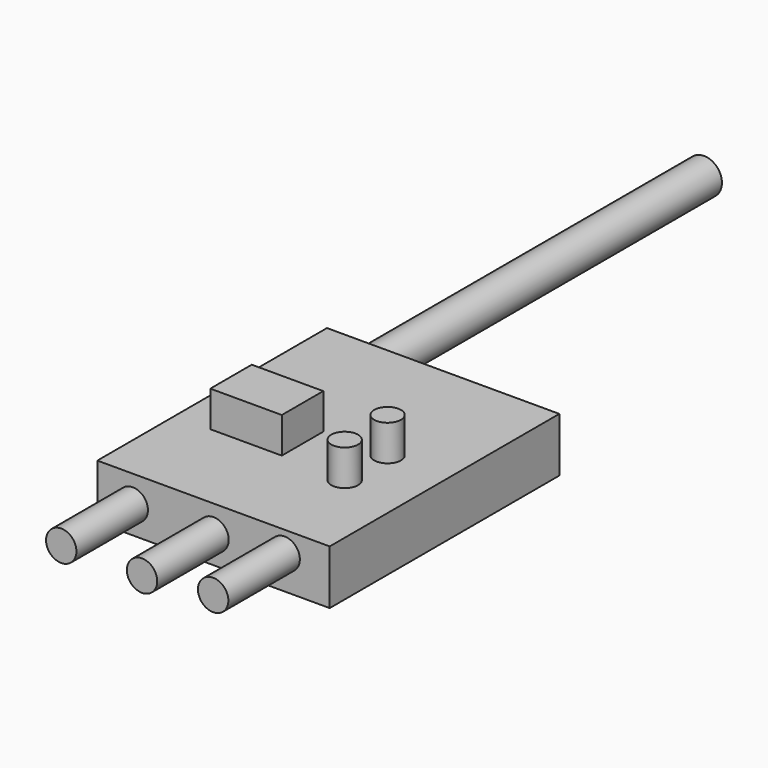
from build123d import *

# Parameters (mm, degrees)
F0_W     = 65
F0_H     = 80.3
F1_DEPTH = 15.2
F2_R     = 5
F3_DEPTH = 120
F4_R     = 4.25
F5_DEPTH = 25
F6_W     = 20
F6_H     = 14.5
F6_R     = 3.75
F7_DEPTH = 10


with BuildPart() as f1:
    # F0 (on Top) → F1 (new body)
    with BuildSketch(Plane.XY):
        Rectangle(F0_W, F0_H)
    extrude(amount=F1_DEPTH)

    # F2 (on face) → F3 (join)
    with BuildSketch(Plane(origin=(0, 40.15, 0), x_dir=(-1, 0, 0), z_dir=(0, 1, 0))):
        with Locations((23, 6.9)):
            Circle(F2_R)
    extrude(amount=F3_DEPTH)

    # F4 (on face) → F5 (join)
    with BuildSketch(Plane.XZ.offset(40.15)):
        with Locations((-22.6, 7.6)):
            Circle(F4_R)
        with Locations((0, 7.6)):
            Circle(F4_R)
        with Locations((19.9, 9.3)):
            Circle(F4_R)
    extrude(amount=F5_DEPTH)

    # F6 (on face) → F7 (join)
    with BuildSketch(Plane.XY.offset(15.2)):
        with Locations((-12.5, -5.9)):
            Rectangle(F6_W, F6_H)
        with Locations((15.5, 1.35)):
            Circle(F6_R)
        with Locations((15.5, -13.65)):
            Circle(F6_R)
    extrude(amount=F7_DEPTH)


solid = f1.part
